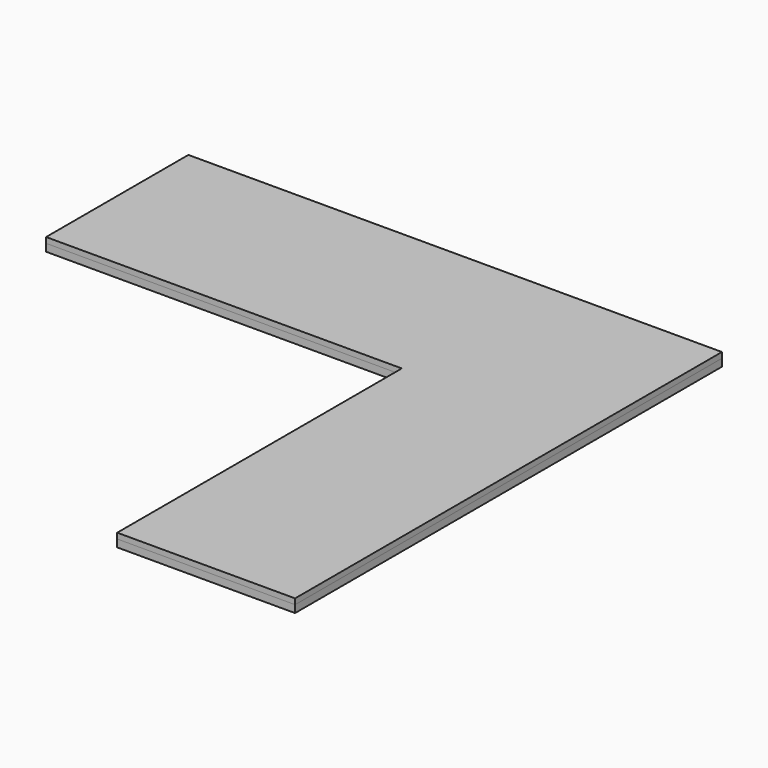
from build123d import *

# Parameters (mm, degrees)
F1_DEPTH = 19.05
F3_DEPTH = 25.4


with BuildPart() as f1:
    # F0 (on Top) → F1 (new body)
    with BuildSketch(Plane.XY):
        Polygon((0, 609.6), (0, 0), (1219.2, 0), (1219.2, -1219.2), (1828.8, -1219.2), (1828.8, 0), (1828.8, 609.6), align=None)
    extrude(amount=F1_DEPTH)


with BuildPart() as f3:
    # F2 (on face) → F3 (new body)
    with BuildSketch(Plane(origin=(0, 0, 0), x_dir=(1, 0, 0), z_dir=(0, 0, -1))):
        Polygon((1219.2, 0), (1218.581915, 0), (0, 0), (0, -609.6), (1828.8, -609.6), (1828.8, 1219.2), (1219.2, 1219.2), align=None)
        Polygon((25.4, -584.2), (25.4, -25.4), (1244.6, -25.4), (1244.6, 1193.8), (1803.4, 1193.8), (1803.4, -584.2), align=None, mode=Mode.SUBTRACT)
    extrude(amount=F3_DEPTH)


solid = Compound([f1.part, f3.part])
